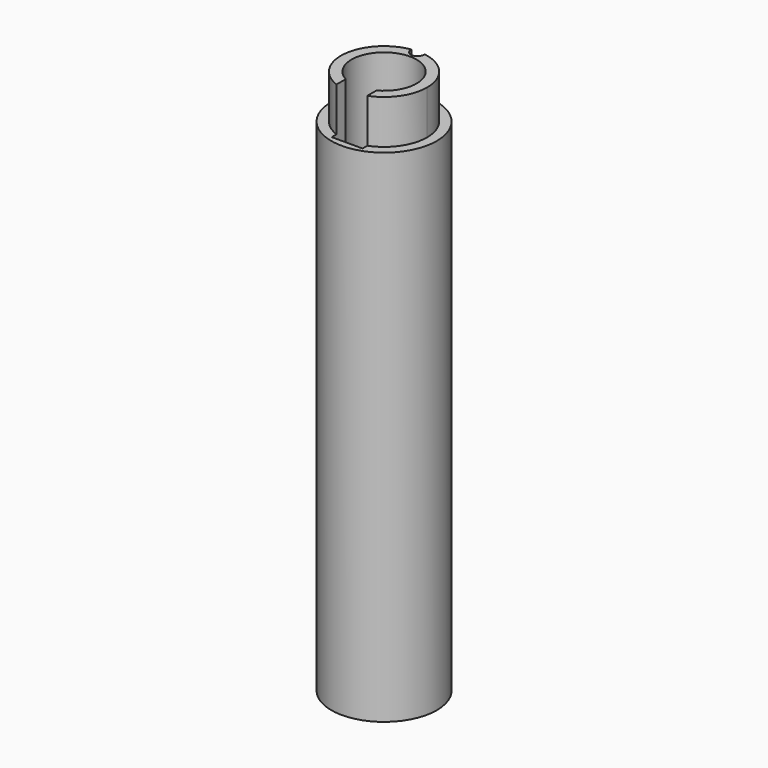
from build123d import *

# Parameters (mm, degrees)
F0_R      = 12
F1_DEPTH  = 2
F2_R      = 12
F2_R_2    = 4.5
F3_DEPTH  = 15
F4_R      = 12
F4_R_2    = 7.4
F5_DEPTH  = 107
F7_DEPTH  = 107.001
F8_R      = 1.5
F9_DEPTH  = 100
F10_R     = 12
F11_DEPTH = 10
F13_DEPTH = 10


with BuildPart() as f1:
    # F0 (on Top) → F1 (new body)
    with BuildSketch(Plane.XY):
        Circle(F0_R)
    extrude(amount=F1_DEPTH)

    # F2 (on face) → F3 (join)
    with BuildSketch(Plane.XY.offset(2)):
        Circle(F2_R)
        Circle(F2_R_2, mode=Mode.SUBTRACT)
    extrude(amount=F3_DEPTH)

    # F4 (on face) → F5 (join)
    with BuildSketch(Plane.XY.offset(17)):
        Circle(F4_R)
        Circle(F4_R_2, mode=Mode.SUBTRACT)
    extrude(amount=F5_DEPTH)

    # F6 (on face) → F7 (cut, through all)
    with BuildSketch(Plane.XY.offset(17)):
        Polygon((3.5, 0), (0, 0), (-3.5, 0), (-3.5, -10.5), (3.5, -10.5), align=None)
    extrude(amount=F7_DEPTH, mode=Mode.SUBTRACT)

    # F8 (on face) → F9 (cut)
    with BuildSketch(Plane.XY.offset(124)):
        with Locations((0, 9.5)):
            Circle(F8_R)
    extrude(amount=-F9_DEPTH, mode=Mode.SUBTRACT)

    # F10 (on face) → F11 (cut)
    with BuildSketch(Plane.XY.offset(124)):
        Circle(F10_R)
        with BuildLine():
            ThreePointArc((1.488384, 9.686316), (7.437276, 6.381765), (9.8, 0))
            ThreePointArc((9.8, 0), (8.072794, -5.556078), (3.5, -9.153688))
            Line((3.5, -9.153688), (3.5, -10.5))
            Line((3.5, -10.5), (-3.5, -10.5))
            Line((-3.5, -10.5), (-3.5, -9.153688))
            ThreePointArc((-3.5, -9.153688), (-9.74461, 1.040468), (-1.488384, 9.686316))
            ThreePointArc((-1.488384, 9.686316), (0, 11), (1.488384, 9.686316))
        make_face(mode=Mode.SUBTRACT)
    extrude(amount=-F11_DEPTH, mode=Mode.SUBTRACT)

    # F12 (on face) → F13 (cut)
    with BuildSketch(Plane.XY.offset(124)):
        Polygon((3.5, 0), (0, 0), (-3.5, 0), (-3.5, -12), (3.5, -12), align=None)
    extrude(amount=-F13_DEPTH, mode=Mode.SUBTRACT)


solid = f1.part
